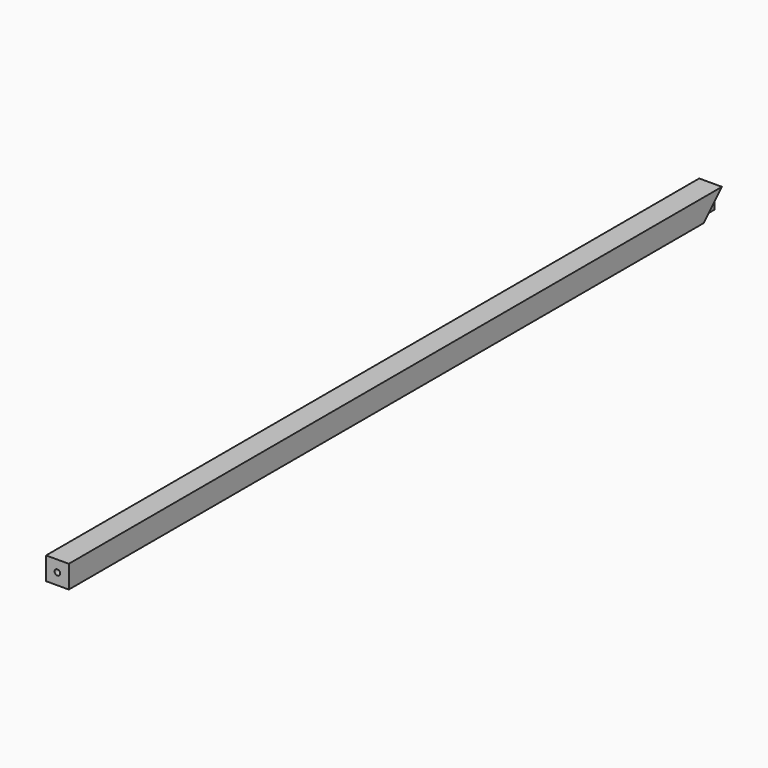
from build123d import *

# Parameters (mm, degrees)
F0_W      = 1618
F0_H      = 45
F1_DEPTH  = 22.5
F3_D      = 11
F3_DEPTH  = 27
F3_TIP    = 3.3047334047
F5_DEPTH  = 15
F7_DEPTH  = 15
F8_R      = 9
F9_DEPTH  = 30
F11_D     = 3.5
F11_DEPTH = 30
F11_TIP   = 1.0515060833


with BuildPart() as f1:
    # F0 (on Right) → F1 (new body, symmetric)
    with BuildSketch(Plane.YZ):
        with Locations((809, 0)):
            Rectangle(F0_W, F0_H)
    extrude(amount=F1_DEPTH, both=True)

    # F3
    with Locations(Plane.XZ):
        with Locations((0, 0)):
            Hole(F3_D / 2, depth=F3_DEPTH)
            with Locations((0, 0, -(F3_DEPTH + F3_TIP / 2))):  # 118° drill point
                Cone(0, F3_D / 2, F3_TIP, mode=Mode.SUBTRACT)

    # F4 (on face) → F5 (cut)
    with BuildSketch(Plane.YZ.offset(22.5)):
        Polygon((1618, -22.5), (1618, 22.5), (1573, -22.5), align=None)
    extrude(amount=-F5_DEPTH, mode=Mode.SUBTRACT)

    # F6 (on face) → F7 (cut)
    with BuildSketch(Plane(origin=(-22.5, 0, 0), x_dir=(0, -1, 0), z_dir=(-1, 0, 0))):
        Polygon((-1573, -22.5), (-1618, 22.5), (-1618, -22.5), align=None)
    extrude(amount=-F7_DEPTH, mode=Mode.SUBTRACT)

    # F8 (on face) → F9 (cut)
    with BuildSketch(Plane(origin=(-22.5, 0, 0), x_dir=(0, -1, 0), z_dir=(-1, 0, 0))):
        with Locations((-200, 0)):
            Circle(F8_R)
        with Locations((-500, 0)):
            Circle(F8_R)
        with Locations((-800, 0)):
            Circle(F8_R)
        with Locations((-1100, 0)):
            Circle(F8_R)
        with Locations((-1400, 0)):
            Circle(F8_R)
    extrude(amount=-F9_DEPTH, mode=Mode.SUBTRACT)

    # F11
    with Locations(Plane(origin=(0, 0, -22.5), x_dir=(1, 0, 0), z_dir=(0, 0, -1))):
        with Locations((10, -1548), (10, -1508), (10, -1468), (-10, -1468), (-10, -1508), (-10, -1548)):
            Hole(F11_D / 2, depth=F11_DEPTH)
            with Locations((0, 0, -(F11_DEPTH + F11_TIP / 2))):  # 118° drill point
                Cone(0, F11_D / 2, F11_TIP, mode=Mode.SUBTRACT)


solid = f1.part
